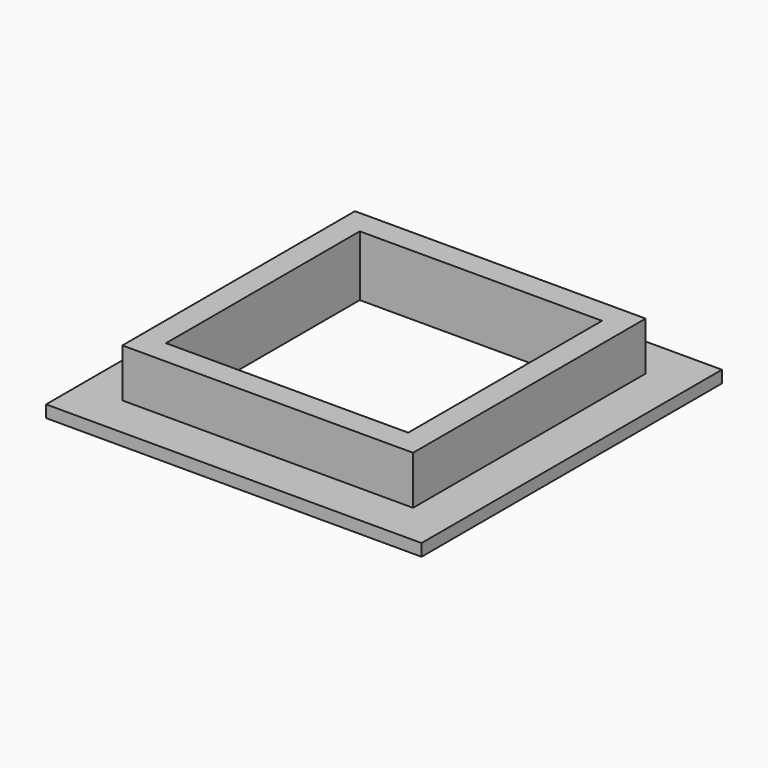
from build123d import *

# Parameters (mm, degrees)
F0_W     = 9.6
F0_H     = 9.6
F1_DEPTH = 2
F2_T     = -0.8
F0_W_2   = 12.4
F0_H_2   = 12.4
F3_DEPTH = 0.4
F4_DEPTH = 1


with BuildPart() as f1:
    # F0 (on Top) → F1 (new body)
    with BuildSketch(Plane.XY):
        Rectangle(F0_W, F0_H)
    extrude(amount=F1_DEPTH)

    # F2
    f2_openings = [f1.faces().sort_by_distance(p)[0] for p in [
        (0, 0, 2),
    ]]
    offset(amount=F2_T, openings=f2_openings)

    # F0 (on Top) → F3 (join)
    with BuildSketch(Plane.XY):
        Rectangle(F0_W_2, F0_H_2)
        Rectangle(F0_W, F0_H, mode=Mode.SUBTRACT)
    extrude(amount=F3_DEPTH)

    # F4 (cut): a face of the model
    f4_faces = [f1.faces().sort_by_distance(p)[0] for p in [
        (0, 0, 0.8),
    ]]
    extrude(f4_faces, amount=-F4_DEPTH, mode=Mode.SUBTRACT)


solid = f1.part
